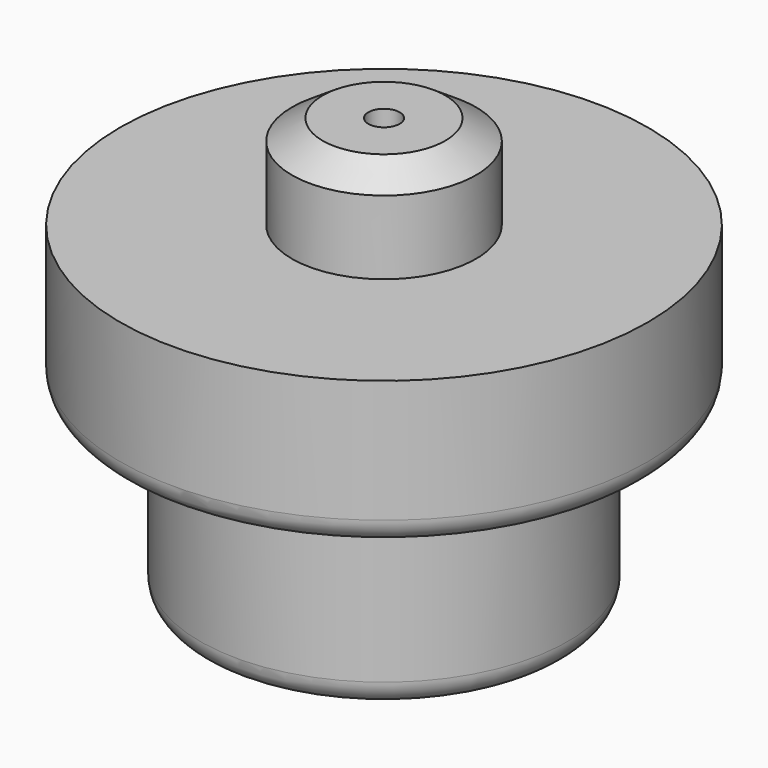
from build123d import *

# Parameters (mm, degrees)
F2_R     = 1.28
F3_DEPTH = 34.659312
F4_R     = 2
F5_R     = 2


with BuildPart() as f1:
    # F0 (on Front) → F1 (revolve)
    with BuildSketch(Plane.XZ):
        Polygon((-15, 0), (0, 0), (0, 34.658312), (-5, 34.658312), (-7.5, 33), (-7.5, 27), (-21.5, 27), (-21.5, 15), (-15, 15), align=None)
    revolve(axis=Axis((0, 0, 25.863634), (0, 0, 1)))

    # F2 (on face) → F3 (cut, through all)
    with BuildSketch(Plane.XY.offset(34.658312)):
        Circle(F2_R)
    extrude(amount=-F3_DEPTH, mode=Mode.SUBTRACT)

    # F4
    f4_edges = [f1.edges().sort_by_distance(p)[0] for p in [
        (21.5, 0, 15),
    ]]
    fillet(f4_edges, radius=F4_R)

    # F5
    f5_edges = [f1.edges().sort_by_distance(p)[0] for p in [
        (15, 0, 0),
    ]]
    fillet(f5_edges, radius=F5_R)


solid = f1.part
